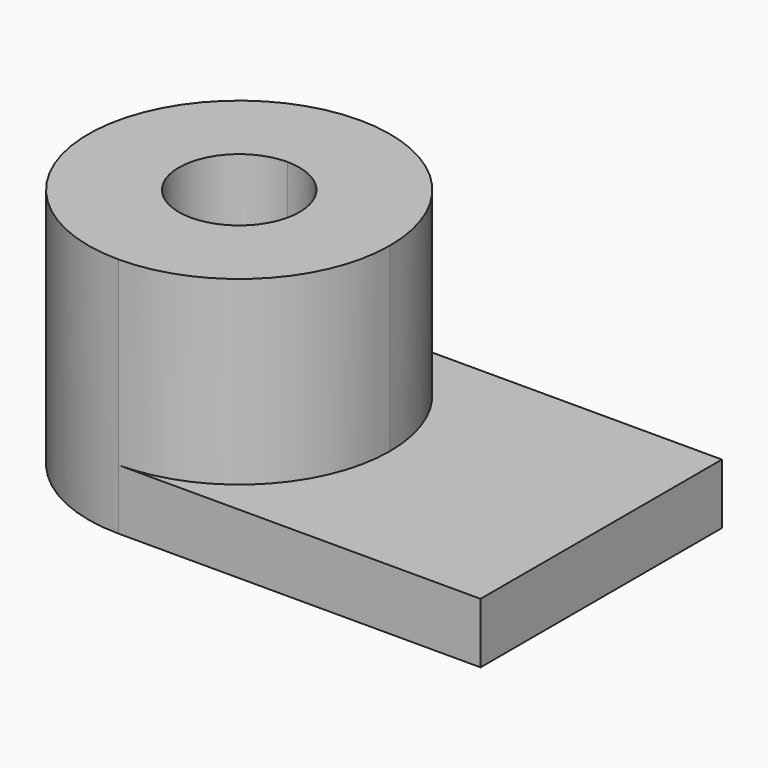
from build123d import *

# Parameters (mm, degrees)
F1_DEPTH = 12.7
F2_DEPTH = 50.8


with BuildPart() as f1:
    # F0 (on Top) → F1 (new body)
    with BuildSketch(Plane.XY):
        with BuildLine():
            Line((38.1, -31.75), (38.1, 31.75))
            Line((38.1, 31.75), (-38.1, 31.75))
            ThreePointArc((-38.1, 31.75), (-15.64936, 22.45064), (-6.35, 0))
            ThreePointArc((-6.35, 0), (-15.64936, -22.45064), (-38.1, -31.75))
            Line((-38.1, -31.75), (38.1, -31.75))
        make_face()
        with BuildLine():
            Line((-38.1, 12.7), (-38.1, 31.75))
            ThreePointArc((-38.1, 31.75), (-69.85, 0), (-38.1, -31.75))
            Line((-38.1, -31.75), (-38.1, -12.7))
            ThreePointArc((-38.1, -12.7), (-50.8, 0), (-38.1, 12.7))
        make_face()
    extrude(amount=F1_DEPTH)

    # F0 (on Top) → F2 (join)
    with BuildSketch(Plane.XY):
        with BuildLine():
            ThreePointArc((-6.35, 0), (-15.64936, 22.45064), (-38.1, 31.75))
            Line((-38.1, 31.75), (-38.1, 12.7))
            ThreePointArc((-38.1, 12.7), (-29.119744, 8.980256), (-25.4, 0))
            ThreePointArc((-25.4, 0), (-29.119744, -8.980256), (-38.1, -12.7))
            Line((-38.1, -12.7), (-38.1, -31.75))
            ThreePointArc((-38.1, -31.75), (-15.64936, -22.45064), (-6.35, 0))
        make_face()
        with BuildLine():
            Line((-38.1, 12.7), (-38.1, 31.75))
            ThreePointArc((-38.1, 31.75), (-69.85, 0), (-38.1, -31.75))
            Line((-38.1, -31.75), (-38.1, -12.7))
            ThreePointArc((-38.1, -12.7), (-50.8, 0), (-38.1, 12.7))
        make_face()
    extrude(amount=F2_DEPTH)


solid = f1.part
